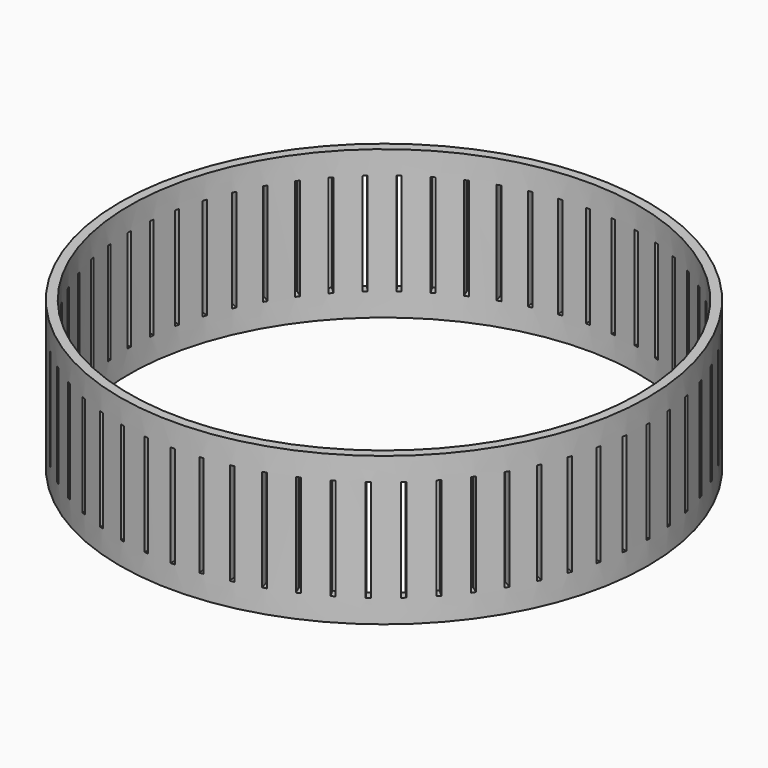
from build123d import *

# Parameters (mm, degrees)
F0_R     = 142.5
F0_R_2   = 137.5
F1_DEPTH = 80
F2_W     = 2.2
F2_H     = 55
F3_DEPTH = 142.501
F4_COUNT = 60
F4_ANGLE = 354


with BuildPart() as f1:
    # F0 (on Top) → F1 (new body)
    with BuildSketch(Plane.XY):
        Circle(F0_R)
        Circle(F0_R_2, mode=Mode.SUBTRACT)
    extrude(amount=F1_DEPTH)

    # F2 (on Front) → F3 (cut, through all)
    with BuildSketch(Plane.XZ):
        with Locations((0, 40)):
            Rectangle(F2_W, F2_H)
    f3 = extrude(amount=-F3_DEPTH, mode=Mode.SUBTRACT)

    # F4: F3 ×60 about axis
    f4_axis = Axis((0, 0, -52.5473468006), (0, 0, -1))
    for i in range(1, F4_COUNT):
        add(f3.rotate(f4_axis, i * F4_ANGLE / (F4_COUNT - 1)), mode=Mode.SUBTRACT)


solid = f1.part
